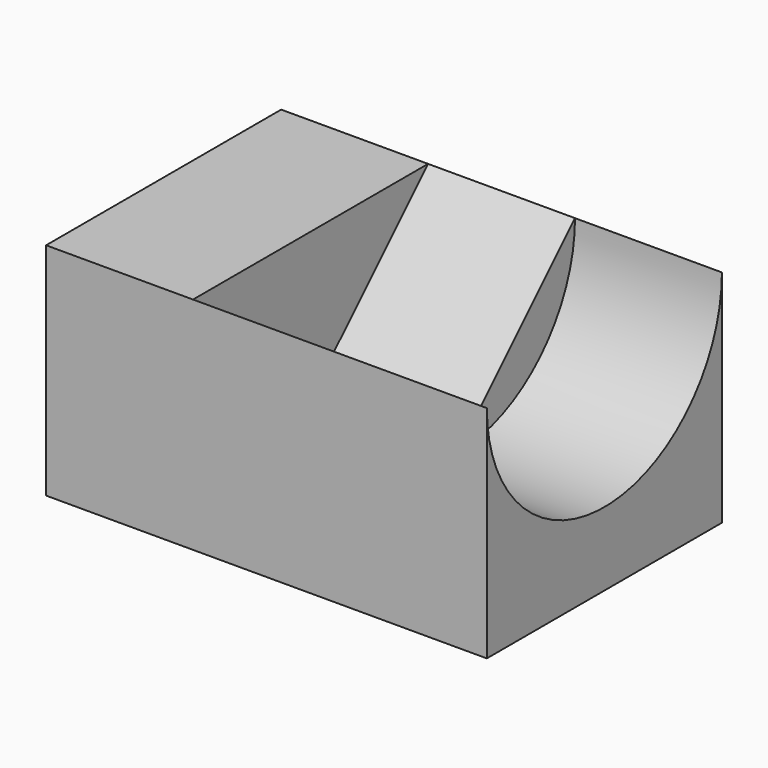
from build123d import *

# Parameters (mm, degrees)
F0_W     = 60
F0_H     = 40
F1_DEPTH = 30
F3_DEPTH = 20
F5_DEPTH = 20


with BuildPart() as f1:
    # F0 (on Top) → F1 (new body)
    with BuildSketch(Plane.XY):
        with Locations((30, 20)):
            Rectangle(F0_W, F0_H)
    extrude(amount=F1_DEPTH)

    # F2 (on face) → F3 (cut)
    with BuildSketch(Plane.YZ.offset(60)):
        with BuildLine():
            Line((40, 30), (0, 30))
            ThreePointArc((0, 30), (20, 10), (40, 30))
        make_face()
    extrude(amount=-F3_DEPTH, mode=Mode.SUBTRACT)

    # F4 (on face) → F5 (cut)
    with BuildSketch(Plane.YZ.offset(40)):
        Polygon((40, 30), (0, 30), (20, 10), align=None)
    extrude(amount=-F5_DEPTH, mode=Mode.SUBTRACT)


solid = f1.part
